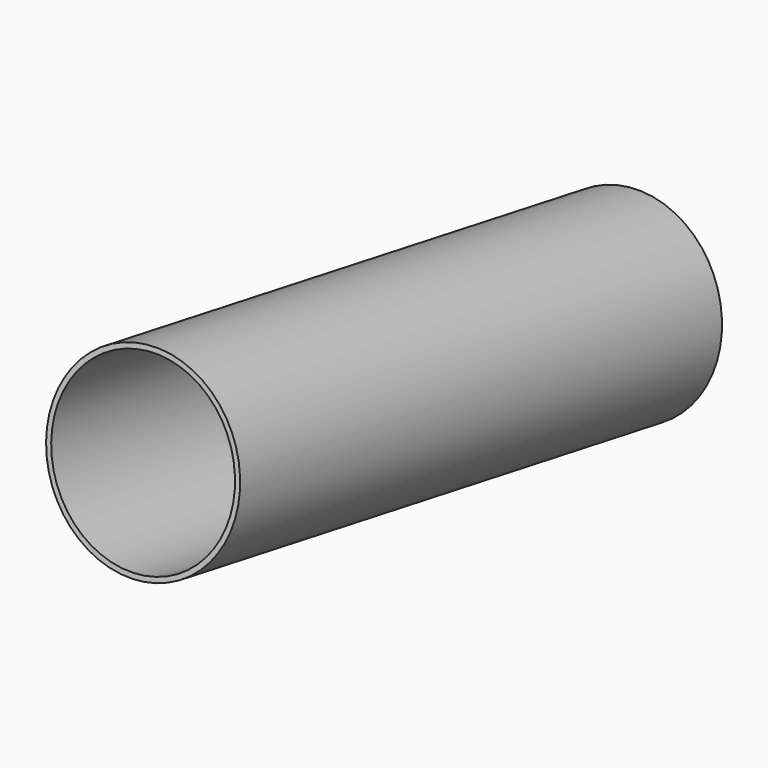
from build123d import *

# Parameters (mm, degrees)
F2_R     = 47.5
F3_DEPTH = 302.26
F4_T     = -2.5


with BuildPart() as f3:
    # F2 (on face) → F3 (new body)
    with BuildSketch(Plane(origin=(0, 0, 0), x_dir=(-1, 0, 0), z_dir=(0, 0.984808, -0.173648))):
        Circle(F2_R)
    extrude(amount=F3_DEPTH)

    # F4
    f4_openings = [f3.faces().sort_by_distance(p)[0] for p in [
        (0, 0, 0),
        (0, 297.667991, -52.486898),
    ]]
    offset(amount=F4_T, openings=f4_openings)


solid = f3.part
